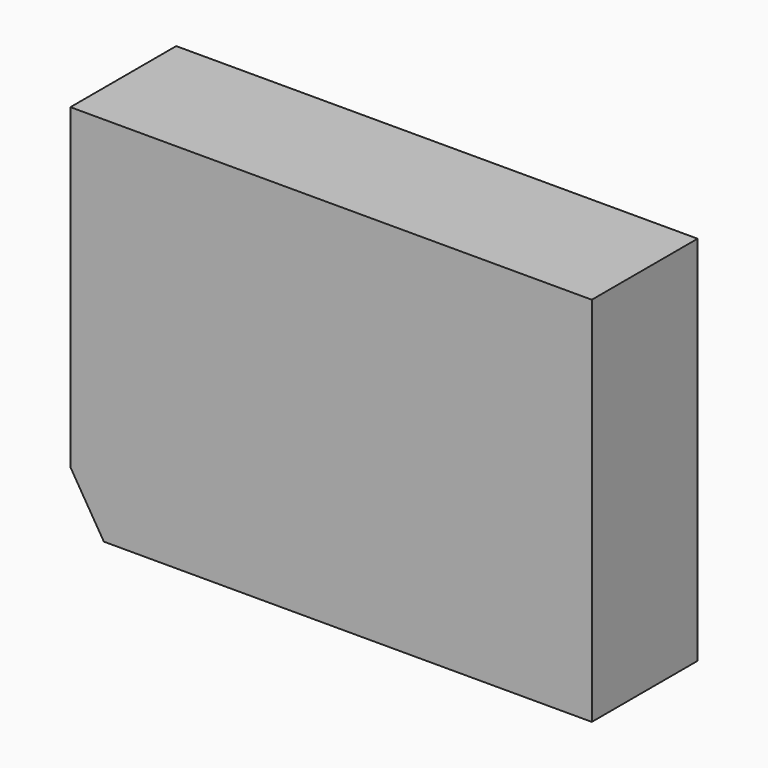
from build123d import *

# Parameters (mm, degrees)
F0_W     = 14.016353
F0_H     = 45.115132
F1_DEPTH = 25.4


with BuildPart() as f1:
    # F0 (on Front) → F1 (new body)
    with BuildSketch(Plane.XZ):
        with Locations((-42.195055, -22.557566)):
            Rectangle(F0_W, F0_H)
        Polygon((-35.186879, -45.115132), (-49.203232, -45.115132), (-49.203232, -60.883522), (33.434838, -60.883522), (33.434838, 0), (-35.186879, 0), align=None)
        Polygon((33.434838, -60.883522), (-49.203232, -60.883522), (-42.779069, -71.395785), (33.434838, -71.395785), align=None)
        Polygon((50.955273, 0), (33.434838, 0), (33.434838, -60.883522), (33.434838, -71.395785), (50.955273, -71.395785), align=None)
    extrude(amount=F1_DEPTH)


solid = f1.part
